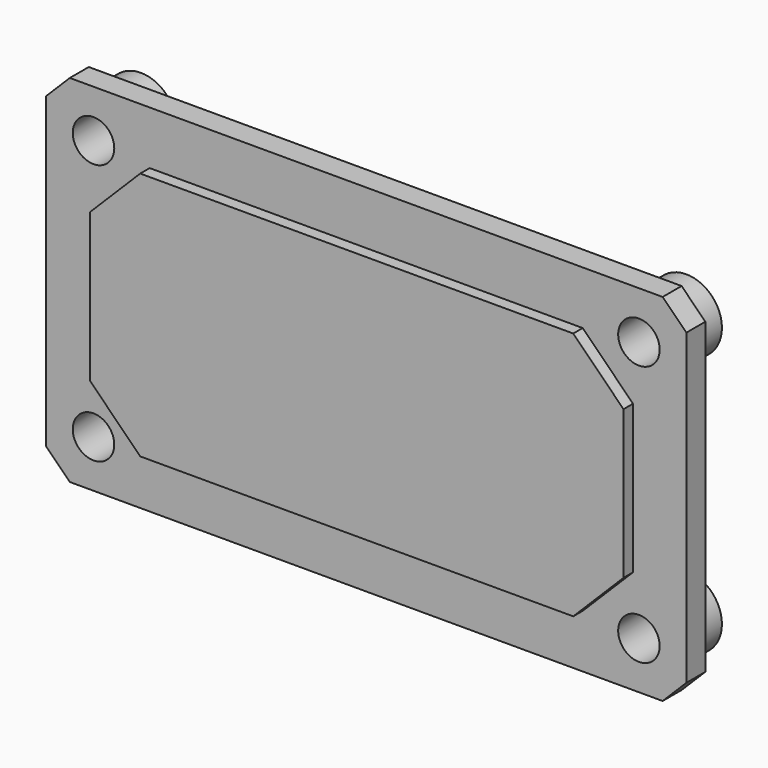
from build123d import *

# Parameters (mm, degrees)
F3_W      = 85.725
F3_H      = 47.625
F4_DEPTH  = 3.175
F6_DEPTH  = 1.5875
F7_R      = 4.7625
F8_DEPTH  = 7.9375
F9_R      = 2.778125
F10_DEPTH = 7.9375
F11_SIZE  = 3.175


with BuildPart() as f4:
    # F3 (on Front) → F4 (new body, through all)
    with BuildSketch(Plane.XZ):
        Rectangle(F3_W, F3_H)
    extrude(amount=-F4_DEPTH)

    # F5 (on Front) → F6 (join)
    with BuildSketch(Plane.XZ):
        Polygon((28.98775, 16.66875), (-28.98775, 16.66875), (-35.71875, 9.93775), (-35.71875, -9.93775), (-28.98775, -16.66875), (28.98775, -16.66875), (35.71875, -9.93775), (35.71875, 9.93775), align=None)
    extrude(amount=F6_DEPTH)

    # F7 (on Front) → F8 (join)
    with BuildSketch(Plane.XZ):
        with Locations((36.5125, 17.4625)):
            Circle(F7_R)
        with Locations((-36.5125, 17.4625)):
            Circle(F7_R)
        with Locations((-36.5125, -17.4625)):
            Circle(F7_R)
        with Locations((36.5125, -17.4625)):
            Circle(F7_R)
    extrude(amount=-F8_DEPTH)

    # F9 (on Front) → F10 (cut, through all)
    with BuildSketch(Plane.XZ):
        with Locations((36.5125, 17.4625)):
            Circle(F9_R)
        with Locations((36.5125, -17.4625)):
            Circle(F9_R)
        with Locations((-36.5125, 17.4625)):
            Circle(F9_R)
        with Locations((-36.5125, -17.4625)):
            Circle(F9_R)
    extrude(amount=-F10_DEPTH, mode=Mode.SUBTRACT)

    # F11
    f11_edges = [f4.edges().sort_by_distance(p)[0] for p in [
        (42.8625, 1.5875, -23.8125),
        (42.8625, 1.5875, 23.8125),
        (-42.8625, 1.5875, -23.8125),
        (-42.8625, 1.5875, 23.8125),
    ]]
    chamfer(f11_edges, length=F11_SIZE)


solid = f4.part
